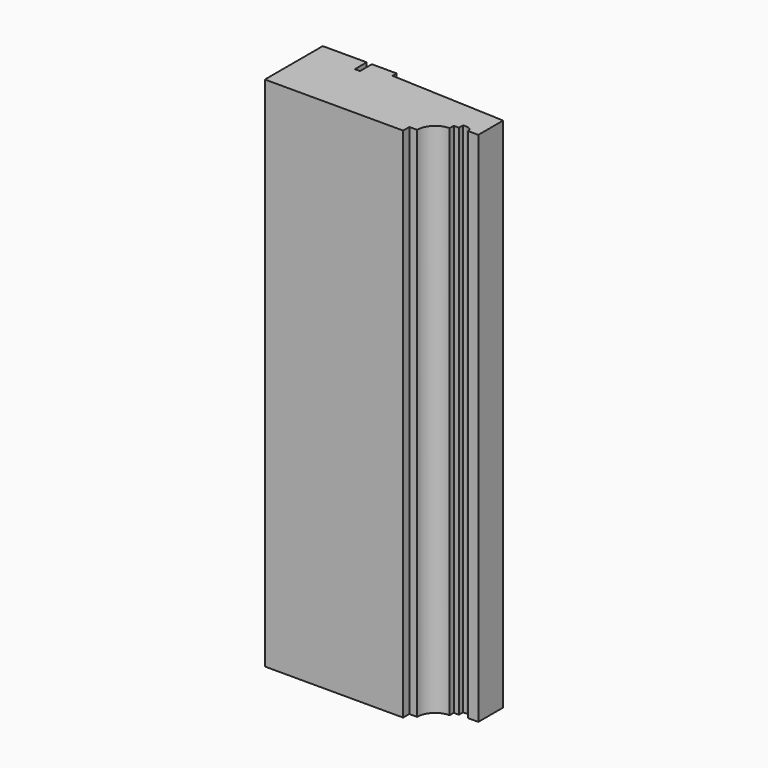
from build123d import *

# Parameters (mm, degrees)
F1_DEPTH = 1000


with BuildPart() as f1:
    # F0 (on Top) → F1 (new body)
    with BuildSketch(Plane.XY):
        with BuildLine():
            Line((-87.321432, 82.782085), (-172.321432, 82.782085))
            Line((-172.321432, 82.782085), (-172.321432, -57.217915))
            Line((-172.321432, -57.217915), (95.178568, -57.217915))
            Line((95.178568, -57.217915), (95.178568, -42.217915))
            Line((95.178568, -42.217915), (110.178568, -42.217915))
            ThreePointArc((110.178568, -42.217915), (120.42983, -17.469178), (145.178568, -7.217915))
            Line((145.178568, -7.217915), (145.178568, 2.782085))
            Line((145.178568, 2.782085), (155.178568, 2.782085))
            Line((155.178568, 2.782085), (155.178568, 12.782085))
            Line((155.178568, 12.782085), (162.678568, 12.782085))
            ThreePointArc((162.678568, 12.782085), (169.749636, 9.853153), (172.678568, 2.782085))
            Line((172.678568, 2.782085), (192.678568, 2.782085))
            Line((192.678568, 2.782085), (192.678568, 62.782085))
            Line((192.678568, 62.782085), (-29.321432, 72.782085))
            Line((-29.321432, 72.782085), (-29.321432, 82.782085))
            Line((-29.321432, 82.782085), (-77.321432, 82.782085))
            Line((-77.321432, 82.782085), (-77.321432, 54.092132))
            Line((-77.321432, 54.092132), (-87.321432, 54.092132))
            Line((-87.321432, 54.092132), (-87.321432, 82.782085))
        make_face()
    extrude(amount=F1_DEPTH)


solid = f1.part
